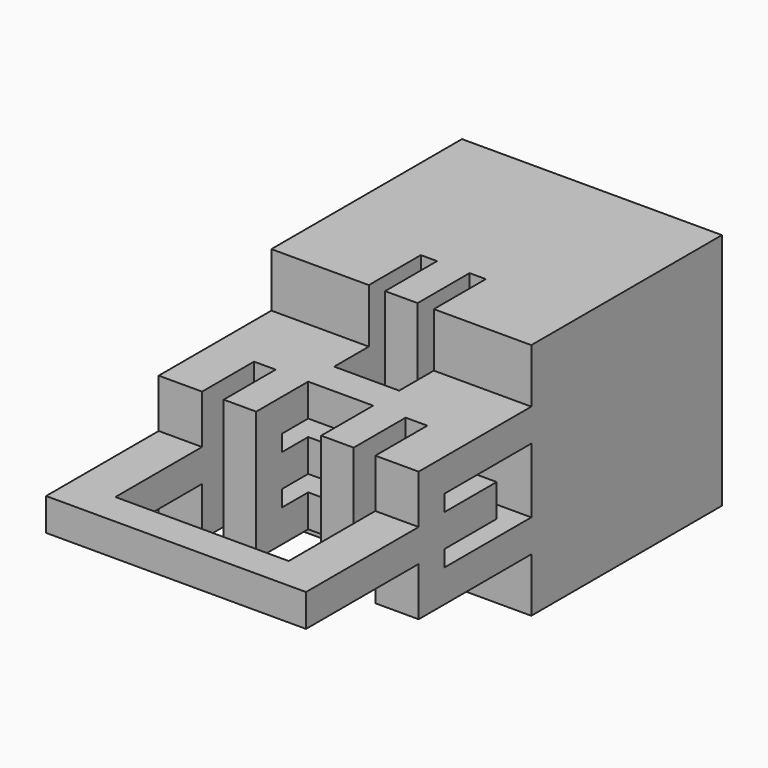
from build123d import *

# Parameters (mm, degrees)
F0_W     = 76.2
F0_H     = 152.4
F1_DEPTH = 38.1
F3_DEPTH = 76.201
F5_DEPTH = 76.201
F7_DEPTH = 76.201
F8_DEPTH = 76.201
F9_DEPTH = 73.026


with BuildPart() as f1:
    # F0 (on Top) → F1 (new body, symmetric)
    with BuildSketch(Plane.XY):
        Rectangle(F0_W, F0_H)
    extrude(amount=F1_DEPTH, both=True)

    # F2 (on face) → F3 (cut, through all)
    with BuildSketch(Plane.XY.offset(38.1)):
        Polygon((-9.525, 25.4), (-9.525, -6.35), (9.525, -6.35), (9.525, 25.4), (4.7625, 25.4), (4.7625, 6.35), (-4.7625, 6.35), (-4.7625, 25.4), align=None)
    extrude(amount=-F3_DEPTH, mode=Mode.SUBTRACT)

    # F4 (on face) → F5 (cut, through all)
    with BuildSketch(Plane(origin=(-38.1, 0, 0), x_dir=(0, -1, 0), z_dir=(-1, 0, 0))):
        Polygon((25.4, 9.525), (-6.35, 9.525), (-6.35, -9.525), (25.4, -9.525), (25.4, -4.7625), (6.35, -4.7625), (6.35, 4.7625), (25.4, 4.7625), align=None)
    extrude(amount=-F5_DEPTH, mode=Mode.SUBTRACT)

    # F6 (on face) → F7 (cut, through all)
    with BuildSketch(Plane.XY.offset(38.1)):
        with BuildLine():
            ThreePointArc((9.525, -18.653125), (8.711306, -16.688694), (6.746875, -15.875))
            ThreePointArc((6.746875, -15.875), (4.782444, -20.617556), (9.525, -18.653125))
        make_face()
        with BuildLine():
            ThreePointArc((22.621875, -15.875), (20.657444, -20.617556), (25.4, -18.653125))
            ThreePointArc((25.4, -18.653125), (24.586306, -16.688694), (22.621875, -15.875))
        make_face()
        with BuildLine():
            ThreePointArc((21.997912, -37.697932), (21.123243, -35.674362), (19.05, -34.925))
            ThreePointArc((19.05, -34.925), (17.316332, -39.721502), (21.997912, -37.697932))
        make_face()
        with BuildLine():
            ThreePointArc((10.995796, -37.376299), (10.599886, -35.946954), (9.525, -34.925))
            ThreePointArc((9.525, -34.925), (5.835455, -38.805645), (10.995796, -37.376299))
        make_face()
        with BuildLine():
            ThreePointArc((-5.702395, -37.499304), (-6.928701, -35.194996), (-9.525, -34.925))
            ThreePointArc((-9.525, -34.925), (-10.032339, -39.803612), (-5.702395, -37.499304))
        make_face()
        with BuildLine():
            ThreePointArc((-16.36457, -37.701578), (-17.14576, -35.770198), (-19.05, -34.925))
            ThreePointArc((-19.05, -34.925), (-21.13963, -39.632958), (-16.36457, -37.701578))
        make_face()
        with BuildLine():
            ThreePointArc((-6.746875, -15.875), (-8.711306, -16.688694), (-9.525, -18.653125))
            ThreePointArc((-9.525, -18.653125), (-6.746875, -21.43125), (-3.96875, -18.653125))
            ThreePointArc((-3.96875, -18.653125), (-4.782444, -16.688694), (-6.746875, -15.875))
        make_face()
        with BuildLine():
            ThreePointArc((-22.621875, -15.875), (-24.586306, -16.688694), (-25.4, -18.653125))
            ThreePointArc((-25.4, -18.653125), (-22.621875, -21.43125), (-19.84375, -18.653125))
            ThreePointArc((-19.84375, -18.653125), (-20.657444, -16.688694), (-22.621875, -15.875))
        make_face()
        with BuildLine():
            ThreePointArc((-22.621875, -66.675), (-20.657444, -65.861306), (-19.84375, -63.896875))
            ThreePointArc((-19.84375, -63.896875), (-22.621875, -61.11875), (-25.4, -63.896875))
            ThreePointArc((-25.4, -63.896875), (-24.586306, -65.861306), (-22.621875, -66.675))
        make_face()
        with BuildLine():
            ThreePointArc((25.4, -63.896875), (20.657444, -61.932444), (22.621875, -66.675))
            ThreePointArc((22.621875, -66.675), (24.586306, -65.861306), (25.4, -63.896875))
        make_face()
    extrude(amount=-F7_DEPTH, mode=Mode.SUBTRACT)

    # F4 (on face) → F8 (cut, through all)
    with BuildSketch(Plane(origin=(-38.1, 0, 0), x_dir=(0, -1, 0), z_dir=(-1, 0, 0))):
        Polygon((-76.2, 34.925), (-6.35, 34.925), (-6.35, 19.05), (34.925, 19.05), (34.925, 4.7625), (76.2, 4.7625), (76.2, 38.1), (-76.2, 38.1), align=None)
        Polygon((-6.35, -34.925), (-76.2, -34.925), (-76.2, -38.1), (76.2, -38.1), (76.2, -4.7625), (34.925, -4.7625), (34.925, -19.05), (-6.35, -19.05), align=None)
    extrude(amount=-F8_DEPTH, mode=Mode.SUBTRACT)

    # F2 (on face) → F9 (cut, through all)
    with BuildSketch(Plane.XY.offset(38.1)):
        Polygon((-19.05, -34.925), (-19.05, -15.875), (-25.4, -15.875), (-25.4, -66.675), (25.4, -66.675), (25.4, -15.875), (19.05, -15.875), (19.05, -34.925), (9.525, -34.925), (9.525, -15.875), (-9.525, -15.875), (-9.525, -34.925), align=None)
    extrude(amount=-F9_DEPTH, mode=Mode.SUBTRACT)


solid = f1.part
